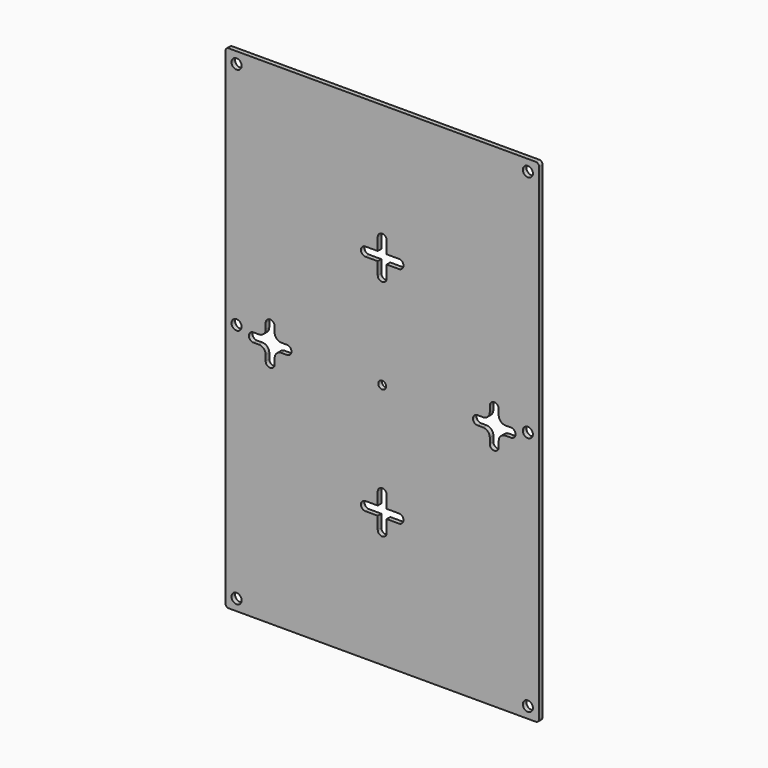
from build123d import *

# Parameters (mm, degrees)
F0_W     = 140
F0_H     = 220
F0_R     = 2.25
F1_DEPTH = 2
F2_W     = 2
F2_H     = 2
F2_R     = 1.75
F3_DEPTH = 2
F4_R     = 3
F5_R     = 1.5


with BuildPart() as f1:
    # F0 (on Front) → F1 (new body)
    with BuildSketch(Plane.XZ):
        with Locations((70, 110)):
            Rectangle(F0_W, F0_H)
        with Locations((5, 5)):
            Circle(F0_R, mode=Mode.SUBTRACT)
        with Locations((135, 5)):
            Circle(F0_R, mode=Mode.SUBTRACT)
        with Locations((5, 112.5)):
            Circle(F0_R, mode=Mode.SUBTRACT)
        with Locations((5, 215)):
            Circle(F0_R, mode=Mode.SUBTRACT)
        with Locations((135, 112.5)):
            Circle(F0_R, mode=Mode.SUBTRACT)
        with Locations((135, 215)):
            Circle(F0_R, mode=Mode.SUBTRACT)
    extrude(amount=F1_DEPTH)

    # F2 (on face) → F3 (cut)
    with BuildSketch(Plane.XZ.offset(2)):
        with Locations((21, 111)):
            Rectangle(F2_W, F2_H)
        with Locations((19, 111)):
            Rectangle(F2_W, F2_H)
        with BuildLine():
            Line((18, 112), (20, 112))
            Line((20, 112), (22, 112))
            Line((22, 112), (22, 117.5))
            ThreePointArc((22, 117.5), (20, 119.5), (18, 117.5))
            Line((18, 117.5), (18, 112))
        make_face()
        with Locations((21, 109)):
            Rectangle(F2_W, F2_H)
        with Locations((19, 109)):
            Rectangle(F2_W, F2_H)
        with BuildLine():
            Line((18, 110), (18, 112))
            Line((18, 112), (12.5, 112))
            ThreePointArc((12.5, 112), (10.5, 110), (12.5, 108))
            Line((12.5, 108), (18, 108))
            Line((18, 108), (18, 110))
        make_face()
        with BuildLine():
            Line((27.5, 112), (22, 112))
            Line((22, 112), (22, 110))
            Line((22, 110), (22, 108))
            Line((22, 108), (27.5, 108))
            ThreePointArc((27.5, 108), (29.5, 110), (27.5, 112))
        make_face()
        with BuildLine():
            Line((22, 108), (20, 108))
            Line((20, 108), (18, 108))
            Line((18, 108), (18, 102.5))
            ThreePointArc((18, 102.5), (20, 100.5), (22, 102.5))
            Line((22, 102.5), (22, 108))
        make_face()
        with Locations((121, 111)):
            Rectangle(F2_W, F2_H)
        with Locations((119, 111)):
            Rectangle(F2_W, F2_H)
        with BuildLine():
            Line((118, 112), (120, 112))
            Line((120, 112), (122, 112))
            Line((122, 112), (122, 117.5))
            ThreePointArc((122, 117.5), (120, 119.5), (118, 117.5))
            Line((118, 117.5), (118, 112))
        make_face()
        with Locations((121, 109)):
            Rectangle(F2_W, F2_H)
        with Locations((119, 109)):
            Rectangle(F2_W, F2_H)
        with BuildLine():
            Line((118, 110), (118, 112))
            Line((118, 112), (112.5, 112))
            ThreePointArc((112.5, 112), (110.5, 110), (112.5, 108))
            Line((112.5, 108), (118, 108))
            Line((118, 108), (118, 110))
        make_face()
        with BuildLine():
            Line((127.5, 112), (122, 112))
            Line((122, 112), (122, 110))
            Line((122, 110), (122, 108))
            Line((122, 108), (127.5, 108))
            ThreePointArc((127.5, 108), (129.5, 110), (127.5, 112))
        make_face()
        with BuildLine():
            Line((122, 108), (120, 108))
            Line((120, 108), (118, 108))
            Line((118, 108), (118, 102.5))
            ThreePointArc((118, 102.5), (120, 100.5), (122, 102.5))
            Line((122, 102.5), (122, 108))
        make_face()
        with Locations((70, 110)):
            Circle(F2_R)
        with Locations((71, 161)):
            Rectangle(F2_W, F2_H)
        with BuildLine():
            Line((68, 162), (70, 162))
            Line((70, 162), (72, 162))
            Line((72, 162), (72, 167.5))
            ThreePointArc((72, 167.5), (70, 169.5), (68, 167.5))
            Line((68, 167.5), (68, 162))
        make_face()
        with Locations((69, 161)):
            Rectangle(F2_W, F2_H)
        with Locations((71, 159)):
            Rectangle(F2_W, F2_H)
        with Locations((69, 159)):
            Rectangle(F2_W, F2_H)
        with BuildLine():
            Line((77.5, 162), (72, 162))
            Line((72, 162), (72, 160))
            Line((72, 160), (72, 158))
            Line((72, 158), (77.5, 158))
            ThreePointArc((77.5, 158), (79.5, 160), (77.5, 162))
        make_face()
        with BuildLine():
            Line((68, 160), (68, 162))
            Line((68, 162), (62.5, 162))
            ThreePointArc((62.5, 162), (60.5, 160), (62.5, 158))
            Line((62.5, 158), (68, 158))
            Line((68, 158), (68, 160))
        make_face()
        with BuildLine():
            Line((72, 158), (70, 158))
            Line((70, 158), (68, 158))
            Line((68, 158), (68, 152.5))
            ThreePointArc((68, 152.5), (70, 150.5), (72, 152.5))
            Line((72, 152.5), (72, 158))
        make_face()
        with BuildLine():
            ThreePointArc((77.5, 58), (79.5, 60), (77.5, 62))
            Line((77.5, 62), (72, 62))
            Line((72, 62), (72, 60))
            Line((72, 60), (72, 58))
            Line((72, 58), (77.5, 58))
        make_face()
        with Locations((71, 61)):
            Rectangle(F2_W, F2_H)
        with BuildLine():
            Line((70, 62), (72, 62))
            Line((72, 62), (72, 67.5))
            ThreePointArc((72, 67.5), (70, 69.5), (68, 67.5))
            Line((68, 67.5), (68, 62))
            Line((68, 62), (70, 62))
        make_face()
        with Locations((69, 61)):
            Rectangle(F2_W, F2_H)
        with Locations((71, 59)):
            Rectangle(F2_W, F2_H)
        with BuildLine():
            Line((72, 52.5), (72, 58))
            Line((72, 58), (70, 58))
            Line((70, 58), (68, 58))
            Line((68, 58), (68, 52.5))
            ThreePointArc((68, 52.5), (70, 50.5), (72, 52.5))
        make_face()
        with BuildLine():
            Line((68, 60), (68, 62))
            Line((68, 62), (62.5, 62))
            ThreePointArc((62.5, 62), (60.5, 60), (62.5, 58))
            Line((62.5, 58), (68, 58))
            Line((68, 58), (68, 60))
        make_face()
        with Locations((69, 59)):
            Rectangle(F2_W, F2_H)
    extrude(amount=-F3_DEPTH, mode=Mode.SUBTRACT)

    # F4
    f4_edges = [f1.edges().sort_by_distance(p)[0] for p in [
        (18, -1, 112),
        (22, -1, 112),
        (18, -1, 108),
        (22, -1, 108),
        (118, -1, 112),
        (122, -1, 112),
        (118, -1, 108),
        (122, -1, 108),
    ]]
    fillet(f4_edges, radius=F4_R)

    # F5
    f5_edges = [f1.edges().sort_by_distance(p)[0] for p in [
        (0, -1, 220),
        (140, -1, 220),
        (0, -1, 0),
        (140, -1, 0),
    ]]
    fillet(f5_edges, radius=F5_R)


solid = f1.part
